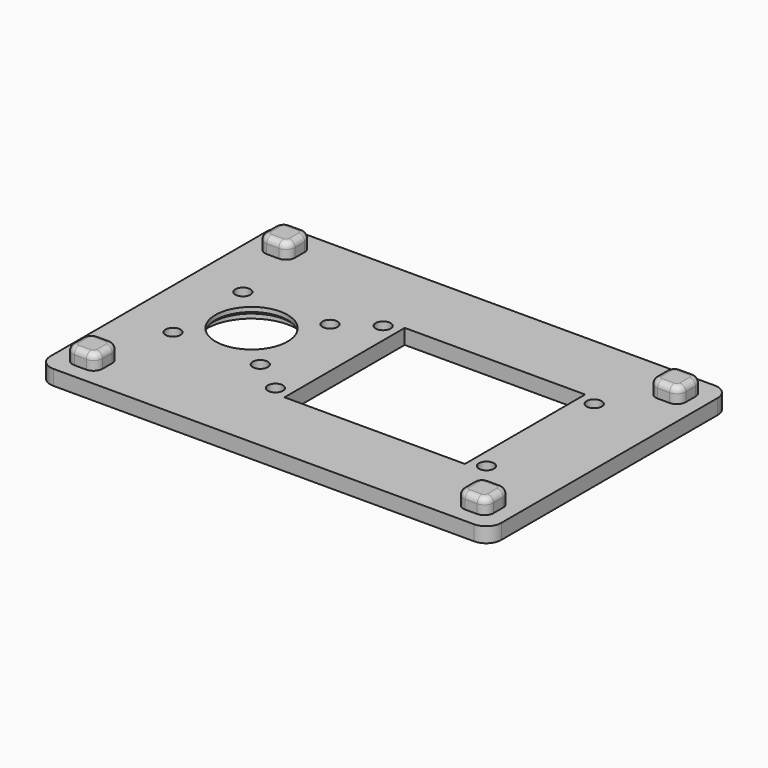
from build123d import *

# Parameters (mm, degrees)
SKETCH_W        = 150
SKETCH_H        = 100
PAD_DEPTH       = 5
FILLET_R        = 5
SKETCH001_W     = 10
SKETCH001_H     = 10
PAD001_DEPTH    = 5
FILLET001_R     = 3
FILLET002_R     = 2
SKETCH002_R     = 2.5
POCKET_DEPTH    = 5
SKETCH003_W     = 60
SKETCH003_H     = 50
POCKET001_DEPTH = 5.001
SKETCH004_R     = 2.5
SKETCH004_R_2   = 12
POCKET002_DEPTH = 5.001
SKETCH005_R     = 15
POCKET003_DEPTH = 2.5
CHAMFER_SIZE    = 1


with BuildPart() as part:
    # Sketch → Pad (new body)
    with BuildSketch(Plane.XY):
        with Locations((75, 50)):
            Rectangle(SKETCH_W, SKETCH_H)
    extrude(amount=PAD_DEPTH)

    # Fillet
    fillet_edges = [part.edges().sort_by_distance(p)[0] for p in [
        (0, 0, 2.5),
        (150, 0, 2.5),
        (150, 100, 2.5),
        (0, 100, 2.5),
    ]]
    fillet(fillet_edges, radius=FILLET_R)

    # Sketch001 → Pad001 (new body)
    with BuildSketch(Plane.XY.offset(5)):
        with Locations((10, 10)):
            Rectangle(SKETCH001_W, SKETCH001_H)
        with Locations((140, 90)):
            Rectangle(SKETCH001_W, SKETCH001_H)
        with Locations((10, 90)):
            Rectangle(SKETCH001_W, SKETCH001_H)
        with Locations((140, 10)):
            Rectangle(SKETCH001_W, SKETCH001_H)
    extrude(amount=PAD001_DEPTH)

    # Fillet001
    fillet001_edges = [part.edges().sort_by_distance(p)[0] for p in [
        (5, 5, 7.5),
        (15, 5, 7.5),
        (5, 15, 7.5),
        (15, 15, 7.5),
        (5, 95, 7.5),
        (15, 95, 7.5),
        (5, 85, 7.5),
        (15, 85, 7.5),
        (135, 5, 7.5),
        (145, 5, 7.5),
        (145, 15, 7.5),
        (135, 85, 7.5),
        (145, 85, 7.5),
        (145, 95, 7.5),
        (135, 95, 7.5),
        (135, 15, 7.5),
    ]]
    fillet(fillet001_edges, radius=FILLET001_R)

    # Fillet002
    fillet002_edges = [part.edges().sort_by_distance(p)[0] for p in [
        (10, 15, 10),
        (140, 15, 10),
        (140, 95, 10),
        (10, 95, 10),
    ]]
    fillet(fillet002_edges, radius=FILLET002_R)

    # Sketch002 → Pocket (cut)
    with BuildSketch(Plane.XY.offset(5)):
        with Locations((56.8, 72.4)):
            Circle(SKETCH002_R)
        with Locations((127, 72.4)):
            Circle(SKETCH002_R)
        with Locations((56.8, 27.6)):
            Circle(SKETCH002_R)
        with Locations((127, 27.6)):
            Circle(SKETCH002_R)
    extrude(amount=-POCKET_DEPTH, mode=Mode.SUBTRACT)

    # Sketch003 → Pocket001 (cut, through all)
    with BuildSketch(Plane.XY.offset(5)):
        with Locations((91.9, 50)):
            Rectangle(SKETCH003_W, SKETCH003_H)
    extrude(amount=-POCKET001_DEPTH, mode=Mode.SUBTRACT)

    # Sketch004 → Pocket002 (cut, through all)
    with BuildSketch(Plane.XY.offset(5)):
        with Locations((16.45, 64.5)):
            Circle(SKETCH004_R)
        with Locations((45.45, 64.5)):
            Circle(SKETCH004_R)
        with Locations((45.45, 35.5)):
            Circle(SKETCH004_R)
        with Locations((16.45, 35.5)):
            Circle(SKETCH004_R)
        with Locations((30.95, 50)):
            Circle(SKETCH004_R_2)
    extrude(amount=-POCKET002_DEPTH, mode=Mode.SUBTRACT)

    # Sketch005 → Pocket003 (cut)
    with BuildSketch(Plane(origin=(0, 0, 0), x_dir=(1, 0, 0), z_dir=(0, 0, -1))):
        with Locations((30.95, -50)):
            Circle(SKETCH005_R)
    extrude(amount=-POCKET003_DEPTH, mode=Mode.SUBTRACT)

    # Chamfer
    chamfer_edges = [part.edges().sort_by_distance(p)[0] for p in [
        (15.95, 50, 2.5),
        (18.95, 50, 2.5),
    ]]
    chamfer(chamfer_edges, length=CHAMFER_SIZE)


solid = part.part
